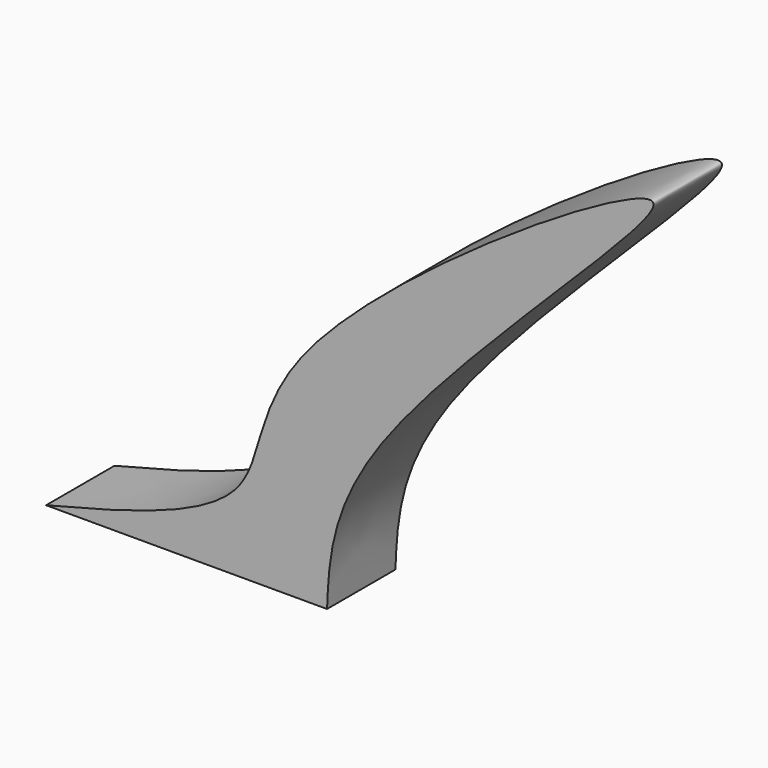
from build123d import *

# Parameters (mm, degrees)
F1_DEPTH = 7.62


with BuildPart() as f1:
    # F0 (on Front) → F1 (new body)
    with BuildSketch(Plane.XZ):
        with BuildLine():
            add(Edge.make_bspline(
                [(6.4826235175, 7.6612979174), (13.6114019761, 9.4698852054), (26.9106134191, 12.8439246155), (23.5466750324, 27.9231763212), (80.4610299181, 63.6886344092), (32.1585057771, 22.4811128249), (31.7097973484, 11.9160087424), (31.5291136503, 7.6612979174)],
                knots=[0, 0, 0, 0, 0.1776244624, 0.3313701718, 0.5873481525, 0.8338186483, 1, 1, 1, 1], degree=3))
            Line((6.4826235175, 7.6612979174), (31.5291136503, 7.6612979174))
        make_face()
    extrude(amount=F1_DEPTH)


solid = f1.part
